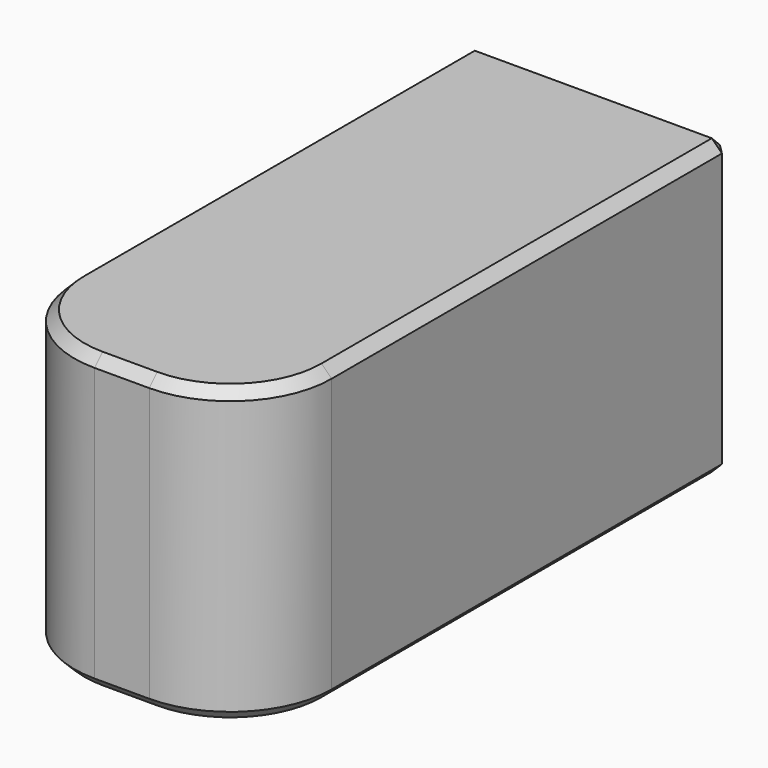
from build123d import *

# Parameters (mm, degrees)
F0_W     = 44.5
F0_H     = 29
F1_DEPTH = 25.4
F2_R     = 10
F3_SIZE  = 1


with BuildPart() as f1:
    # F0 (on Right) → F1 (new body)
    with BuildSketch(Plane.YZ):
        with BuildLine():
            ThreePointArc((-27.7348309755, -3.6565796257), (-28.7256107674, 1.6113392583), (-27.7348309755, 6.8792581423))
            Line((-27.7348309755, 6.8792581423), (-27.7348309755, 16.1113392583))
            Line((-27.7348309755, 16.1113392583), (-28.8986135274, 16.1113392583))
            Line((-28.8986135274, 16.1113392583), (-28.8986135274, -12.8886607417))
            Line((-28.8986135274, -12.8886607417), (-27.7348309755, -12.8886607417))
            Line((-27.7348309755, -12.8886607417), (-27.7348309755, -3.6565796257))
        make_face()
        with BuildLine():
            ThreePointArc((-27.7348309755, 6.8792581423), (-22.4068446652, 13.5828643035), (-14.2256107674, 16.1113392583))
            Line((-14.2256107674, 16.1113392583), (-27.7348309755, 16.1113392583))
            Line((-27.7348309755, 16.1113392583), (-27.7348309755, 6.8792581423))
        make_face()
        with BuildLine():
            Line((-27.7348309755, -12.8886607417), (-14.2256107674, -12.8886607417))
            ThreePointArc((-14.2256107674, -12.8886607417), (-22.4068446652, -10.360185787), (-27.7348309755, -3.6565796257))
            Line((-27.7348309755, -3.6565796257), (-27.7348309755, -12.8886607417))
        make_face()
        with BuildLine():
            Line((-14.2256107674, -12.8886607417), (-14.2256107674, 16.1113392583))
            ThreePointArc((-14.2256107674, 16.1113392583), (-22.4068446652, 13.5828643035), (-27.7348309755, 6.8792581423))
            Line((-27.7348309755, 6.8792581423), (-27.7348309755, -3.6565796257))
            ThreePointArc((-27.7348309755, -3.6565796257), (-22.4068446652, -10.360185787), (-14.2256107674, -12.8886607417))
        make_face()
        with BuildLine():
            Line((-27.7348309755, -3.6565796257), (-27.7348309755, 6.8792581423))
            ThreePointArc((-27.7348309755, 6.8792581423), (-28.7256107674, 1.6113392583), (-27.7348309755, -3.6565796257))
        make_face()
        with Locations((8.0243892326, 1.6113392583)):
            Rectangle(F0_W, F0_H)
    extrude(amount=F1_DEPTH)

    # F2
    f2_edges = [f1.edges().sort_by_distance(p)[0] for p in [
        (25.4, -28.898614, 1.611339),
        (0, -28.898614, 1.611339),
    ]]
    fillet(f2_edges, radius=F2_R)

    # F3
    f3_edges = [f1.edges().sort_by_distance(p)[0] for p in [
        (25.4, 5.687888, 16.111339),
        (25.4, 5.687888, -12.888661),
        (12.7, 30.274389, 16.111339),
        (12.7, 30.274389, -12.888661),
        (25.4, 30.274389, 1.611339),
        (0, 30.274389, 1.611339),
    ]]
    chamfer(f3_edges, length=F3_SIZE)


solid = f1.part
